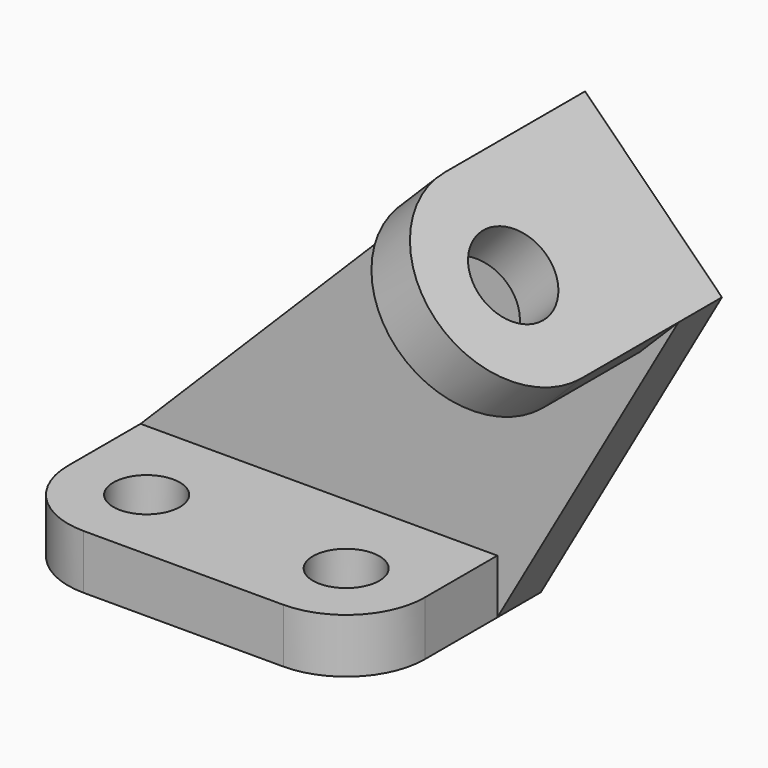
from build123d import *

# Parameters (mm, degrees)
F0_R     = 5.5
F1_DEPTH = 9
F3_DEPTH = 9
F4_R     = 7
F5_DEPTH = 9


with BuildPart() as f1:
    # F0 (on Top) → F1 (new body)
    with BuildSketch(Plane.XY):
        with BuildLine():
            Line((59, 0), (0, 0))
            Line((0, 0), (0, -24))
            ThreePointArc((0, -24), (3.8076118446, -33.1923881554), (13, -37))
            Line((13, -37), (46, -37))
            ThreePointArc((46, -37), (55.1923881554, -33.1923881554), (59, -24))
            Line((59, -24), (59, 0))
        make_face()
        with Locations((13, -24)):
            Circle(F0_R, mode=Mode.SUBTRACT)
        with Locations((46, -24)):
            Circle(F0_R, mode=Mode.SUBTRACT)
    extrude(amount=F1_DEPTH)

    # F2 (on face) → F3 (join)
    with BuildSketch(Plane(origin=(0, 0, 0), x_dir=(-1, 0, 0), z_dir=(0, 1, 0))):
        Polygon((0, 0), (0, 9), (-66.313708499, 75.313708499), (-88.941125497, 52.686291501), (-59, 0), align=None)
    extrude(amount=-F3_DEPTH)

    # F4 (on face) → F5 (join)
    with BuildSketch(Plane(origin=(70.813708499, 0, 70.813708499), x_dir=(0.7071067812, 0, -0.7071067812), z_dir=(0.7071067812, 0, 0.7071067812))):
        with BuildLine():
            Line((25.6360389693, -29), (25.6360389693, 0))
            Line((25.6360389693, 0), (-6.3639610307, 0))
            Line((-6.3639610307, 0), (-6.3639610307, -29))
            ThreePointArc((-6.3639610307, -29), (9.6360389693, -45), (25.6360389693, -29))
        make_face()
        with Locations((9.6360389693, -29)):
            Circle(F4_R, mode=Mode.SUBTRACT)
    extrude(amount=-F5_DEPTH)


solid = f1.part
